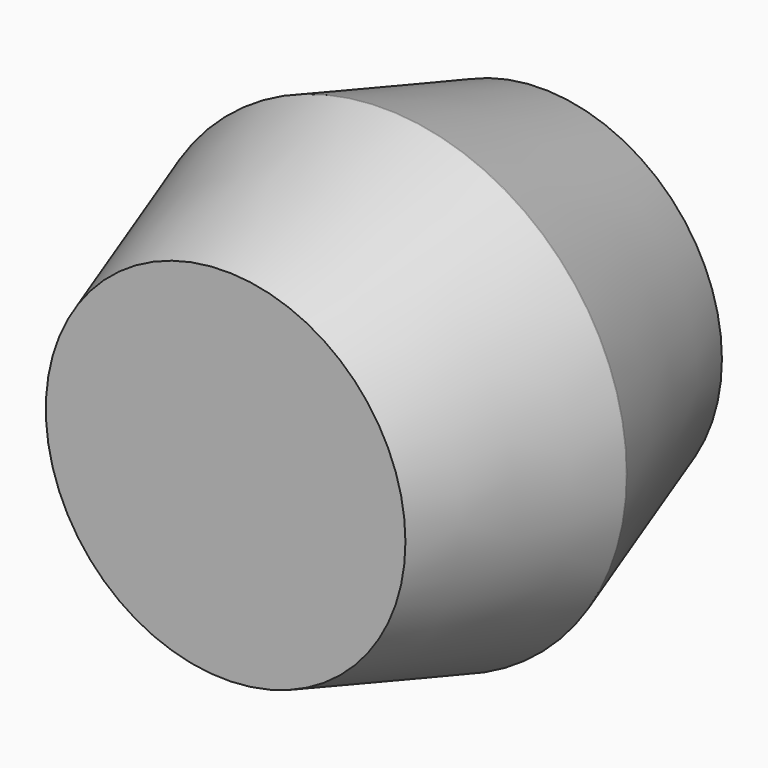
from build123d import *

# Parameters (mm, degrees)
F0_R      = 13.5
F1_DEPTH  = 0.024
F3_R      = 10
F1_FACE_R = 13.5


with BuildPart() as f1:
    # F0 (on Front) → F1 (new body)
    with BuildSketch(Plane.XZ):
        Circle(F0_R)
    extrude(amount=F1_DEPTH)

    # F3 (on offset) → F4 section 0
    with BuildSketch(Plane.XZ.offset(11)):
        Circle(F3_R)
    # F1_face (on face) → F4 section 1
    with BuildSketch(Plane.XZ.offset(0.024)):
        Circle(F1_FACE_R)
    loft()

    # F5: F1 across plane


with BuildPart() as f1_1:
    add(f1.part)
    add(f1.part.mirror(Plane.XZ))


solid = f1_1.part
